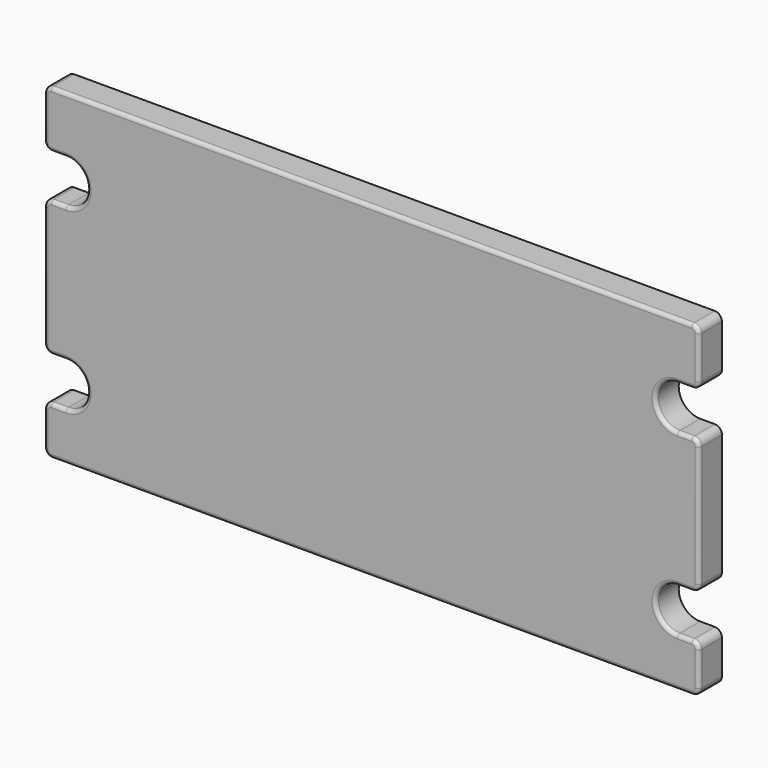
from build123d import *

# Parameters (mm, degrees)
F1_DEPTH = 6.35
F2_R     = 0.8128


with BuildPart() as f1:
    # F0 (on Front) → F1 (new body)
    with BuildSketch(Plane.XZ):
        with BuildLine():
            ThreePointArc((-70.6882, 76.358423), (-71.801752, 75.897174), (-72.263, 74.783623))
            Line((-72.263, 74.783623), (-72.263, 65.458811))
            ThreePointArc((-72.263, 65.458811), (-71.801752, 64.34526), (-70.6882, 63.884011))
            Line((-70.6882, 63.884011), (-67.4878, 63.884011))
            ThreePointArc((-67.4878, 63.884011), (-62.7253, 59.121511), (-67.4878, 54.359011))
            Line((-67.4878, 54.359011), (-70.6882, 54.359011))
            ThreePointArc((-70.6882, 54.359011), (-71.801752, 53.897763), (-72.263, 52.784211))
            Line((-72.263, 52.784211), (-72.263, 26.064518))
            ThreePointArc((-72.263, 26.064518), (-71.801752, 24.950967), (-70.6882, 24.489718))
            Line((-70.6882, 24.489718), (-67.4878, 24.489718))
            ThreePointArc((-67.4878, 24.489718), (-62.7253, 19.727218), (-67.4878, 14.964718))
            Line((-67.4878, 14.964718), (-70.6882, 14.964718))
            ThreePointArc((-70.6882, 14.964718), (-71.801752, 14.50347), (-72.263, 13.389918))
            Line((-72.263, 13.389918), (-72.263, 5.860977))
            ThreePointArc((-72.263, 5.860977), (-71.801752, 4.747425), (-70.6882, 4.286177))
            Line((-70.6882, 4.286177), (0, 4.286177))
            Line((0, 4.286177), (70.6882, 4.286177))
            ThreePointArc((70.6882, 4.286177), (71.801752, 4.747425), (72.263, 5.860977))
            Line((72.263, 5.860977), (72.263, 13.389918))
            ThreePointArc((72.263, 13.389918), (71.801752, 14.50347), (70.6882, 14.964718))
            Line((70.6882, 14.964718), (67.4878, 14.964718))
            ThreePointArc((67.4878, 14.964718), (62.7253, 19.727218), (67.4878, 24.489718))
            Line((67.4878, 24.489718), (70.6882, 24.489718))
            ThreePointArc((70.6882, 24.489718), (71.801752, 24.950967), (72.263, 26.064518))
            Line((72.263, 26.064518), (72.263, 52.784211))
            ThreePointArc((72.263, 52.784211), (71.801752, 53.897763), (70.6882, 54.359011))
            Line((70.6882, 54.359011), (67.4878, 54.359011))
            ThreePointArc((67.4878, 54.359011), (62.7253, 59.121511), (67.4878, 63.884011))
            Line((67.4878, 63.884011), (70.6882, 63.884011))
            ThreePointArc((70.6882, 63.884011), (71.801752, 64.34526), (72.263, 65.458811))
            Line((72.263, 65.458811), (72.263, 74.783623))
            ThreePointArc((72.263, 74.783623), (71.801752, 75.897174), (70.6882, 76.358423))
            Line((70.6882, 76.358423), (3.71171, 76.358423))
            Line((3.71171, 76.358423), (-3.71171, 76.358423))
            Line((-3.71171, 76.358423), (-70.6882, 76.358423))
        make_face()
    extrude(amount=F1_DEPTH)

    # F2
    f2_edges = [f1.edges().sort_by_distance(p)[0] for p in [
        (-72.263, -6.35, 70.121217),
        (-71.801752, -6.35, 75.897174),
        (0, -6.35, 76.358423),
        (71.801752, -6.35, 75.897174),
        (72.263, -6.35, 70.121217),
        (71.801752, -6.35, 64.34526),
        (62.7253, -6.35, 59.121511),
        (69.088, -6.35, 63.884011),
        (69.088, -6.35, 54.359011),
        (71.801752, -6.35, 53.897763),
        (72.263, -6.35, 39.424365),
        (71.801752, -6.35, 24.950967),
        (69.088, -6.35, 24.489718),
        (62.7253, -6.35, 19.727218),
        (69.088, -6.35, 14.964718),
        (71.801752, -6.35, 14.50347),
        (72.263, -6.35, 9.625448),
        (71.801752, -6.35, 4.747425),
        (0, -6.35, 4.286177),
        (-71.801752, -6.35, 4.747425),
        (-72.263, -6.35, 9.625448),
        (-71.801752, -6.35, 14.50347),
        (-62.7253, -6.35, 19.727218),
        (-69.088, -6.35, 14.964718),
        (-69.088, -6.35, 24.489718),
        (-71.801752, -6.35, 24.950967),
        (-72.263, -6.35, 39.424365),
        (-71.801752, -6.35, 53.897763),
        (-62.7253, -6.35, 59.121511),
        (-69.088, -6.35, 54.359011),
        (-69.088, -6.35, 63.884011),
        (-71.801752, -6.35, 64.34526),
    ]]
    fillet(f2_edges, radius=F2_R)


solid = f1.part
